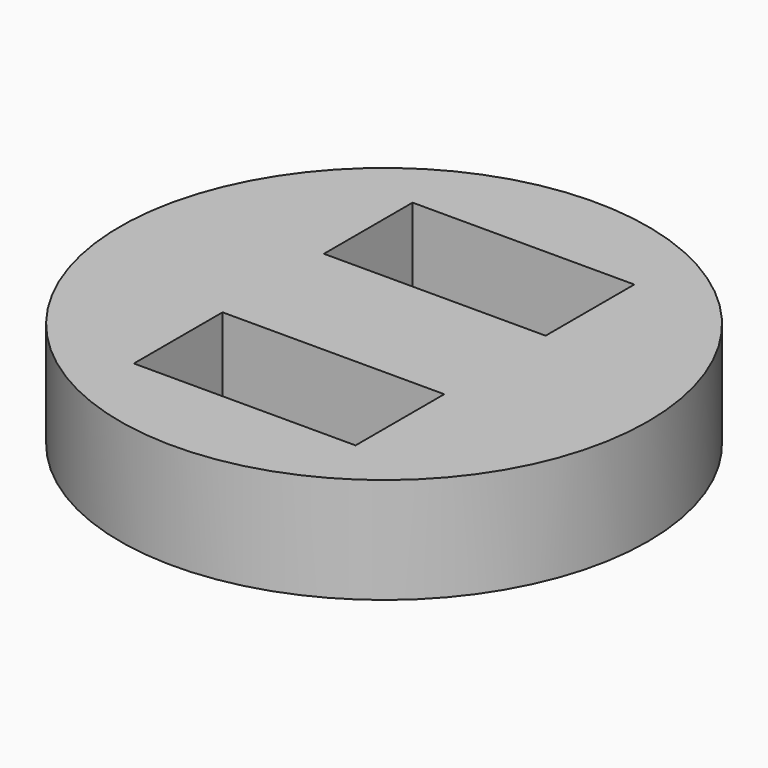
from build123d import *

# Parameters (mm, degrees)
F0_R     = 12.5
F1_DEPTH = 5
F2_W     = 10.5
F2_H     = 5.25
F3_DEPTH = 5


with BuildPart() as f1:
    # F0 (on Top) → F1 (new body)
    with BuildSketch(Plane.XY):
        Circle(F0_R)
    extrude(amount=F1_DEPTH)


with BuildPart() as f3:
    # F2 (on face) → F3 (new body)
    with BuildSketch(Plane.XY.offset(5)):
        with Locations((0, 5.625)):
            Rectangle(F2_W, F2_H)
        with Locations((0, -5.625)):
            Rectangle(F2_W, F2_H)
    extrude(amount=-F3_DEPTH)


with BuildPart() as f1_1:
    add(f1.part)

    # F4: cut F3
    add(f3.part, mode=Mode.SUBTRACT)


solid = f1_1.part
